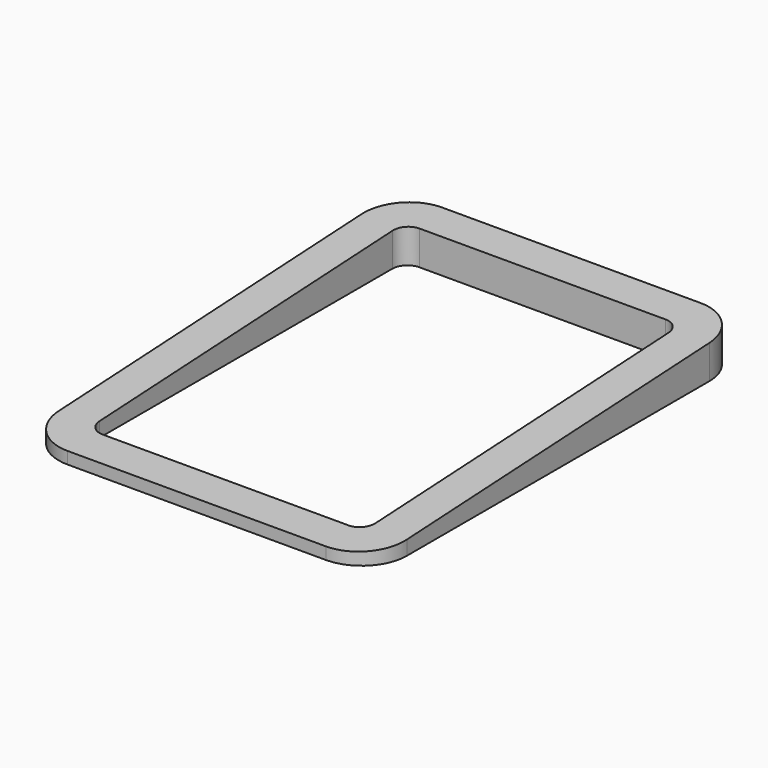
from build123d import *

# Parameters (mm, degrees)
F0_W     = 116
F0_H     = 156
F0_W_2   = 92
F0_H_2   = 132
F1_DEPTH = 12
F3_DEPTH = 116
F4_R     = 5
F5_R     = 15


with BuildPart() as f1:
    # F0 (on Top) → F1 (new body)
    with BuildSketch(Plane.XY):
        Rectangle(F0_W, F0_H)
        Rectangle(F0_W_2, F0_H_2, mode=Mode.SUBTRACT)
    extrude(amount=F1_DEPTH)

    # F2 (on face) → F3 (cut, through all)
    with BuildSketch(Plane(origin=(-58, 0, 0), x_dir=(0, -1, 0), z_dir=(-1, 0, 0))):
        Polygon((-78, 12), (78, 4), (78, 12), align=None)
    extrude(amount=-F3_DEPTH, mode=Mode.SUBTRACT)

    # F4
    f4_edges = [f1.edges().sort_by_distance(p)[0] for p in [
        (46, 66, 5.692308),
        (-46, 66, 5.692308),
        (-46, -66, 2.307692),
        (46, -66, 2.307692),
    ]]
    fillet(f4_edges, radius=F4_R)

    # F5
    f5_edges = [f1.edges().sort_by_distance(p)[0] for p in [
        (58, -78, 2),
        (-58, -78, 2),
        (-58, 78, 6),
        (58, 78, 6),
    ]]
    fillet(f5_edges, radius=F5_R)


solid = f1.part
